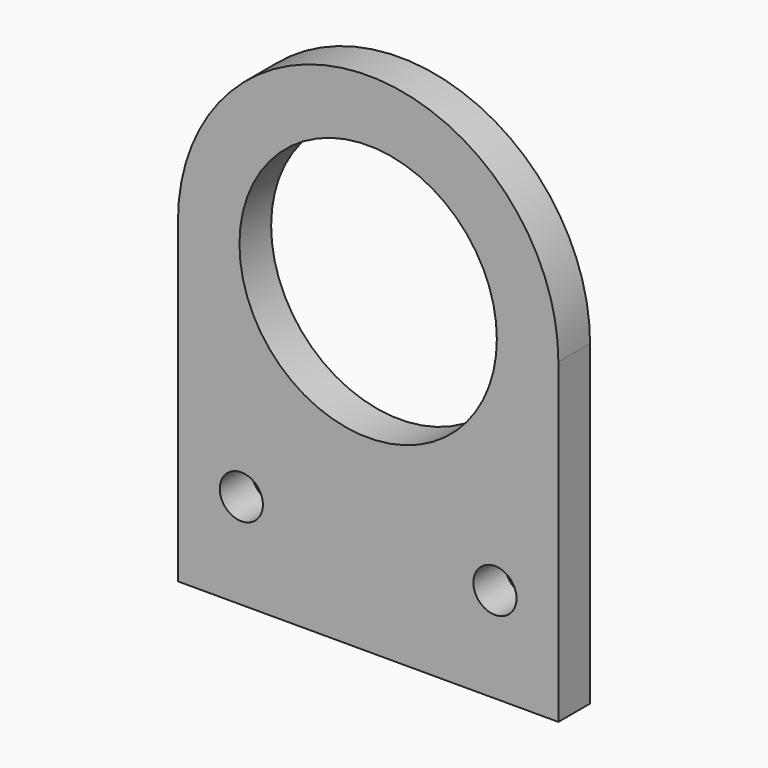
from build123d import *

# Parameters (mm, degrees)
F0_R     = 4.318
F0_R_2   = 25.781
F1_DEPTH = 7.9375


with BuildPart() as f1:
    # F0 (on Front) → F1 (new body)
    with BuildSketch(Plane.XZ):
        with BuildLine():
            Line((38.1, -63.5), (38.1, 0))
            ThreePointArc((38.1, 0), (0, 38.1), (-38.1, 0))
            Line((-38.1, 0), (-38.1, -63.5))
            Line((-38.1, -63.5), (38.1, -63.5))
        make_face()
        with Locations((-25.4, -44.45)):
            Circle(F0_R, mode=Mode.SUBTRACT)
        with Locations((25.4, -44.45)):
            Circle(F0_R, mode=Mode.SUBTRACT)
        Circle(F0_R_2, mode=Mode.SUBTRACT)
    extrude(amount=F1_DEPTH)


solid = f1.part
